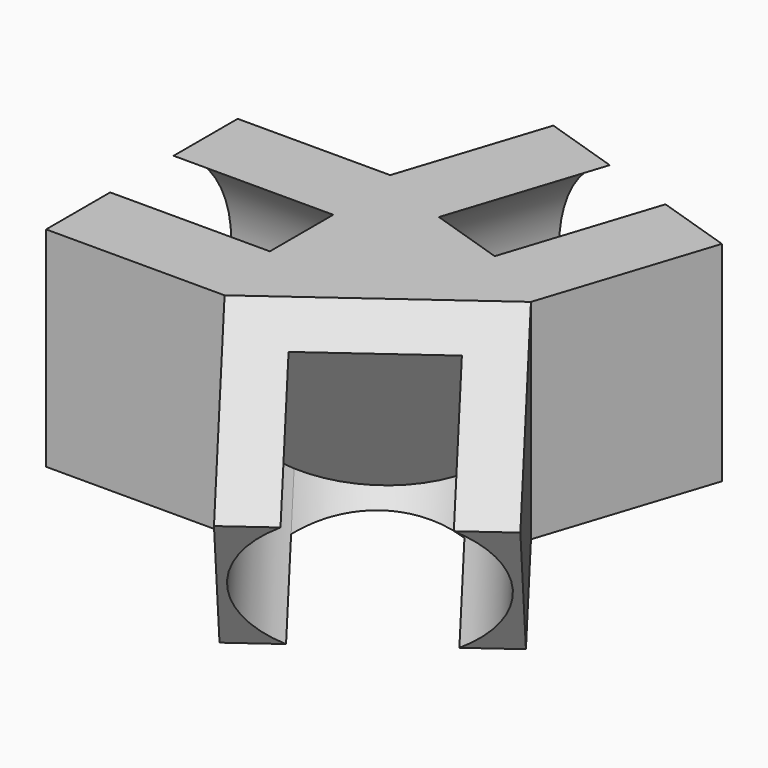
from build123d import *

# Parameters (mm, degrees)
F1_DEPTH  = 40
F3_DEPTH  = 30
F4_DEPTH  = 13.8188209357
F6_DEPTH  = 20
F7_R      = 14
F8_DEPTH  = 20
F9_R      = 14
F10_DEPTH = 20


with BuildPart() as f1:
    # F0 (on Top) → F1 (new body)
    with BuildSketch(Plane.XY):
        Polygon((17.6335575688, -24.2705098312), (0, 0), (-30, 0), (-30, -15), (-7.6428817424, -15), (5.4983026531, -33.0872886156), align=None)
        Polygon((9.2705098312, 28.5316954889), (0, 0), (17.6335575688, -24.2705098312), (29.7688124844, -15.4537310469), (16.6276280888, 2.6335575688), (23.5363575757, 23.8964405732), align=None)
        Polygon((-30, 0), (0, 0), (9.2705098312, 28.5316954889), (-4.9953379132, 33.1669504045), (-10.8981379201, 15), (-30, 15), align=None)
    extrude(amount=F1_DEPTH)

    # F2 (on face) → F3 (cut, through all)
    with BuildSketch(Plane(origin=(12.1352549156, 8.8167787844, 0), x_dir=(-0.5877852523, 0.8090169944, 0), z_dir=(0.8090169944, 0.5877852523, 0))):
        Polygon((-30, 26.1811790643), (-7.6428817424, 40), (-30, 40), align=None)
        Polygon((-18.2909047095, 7.2373321675), (-30, 26.1811790643), (-30, 0), (-7.6428817424, 0), (-7.6428817424, 13.8188209357), align=None)
    extrude(amount=-F3_DEPTH, mode=Mode.SUBTRACT)

    # F4 (cut, through all): a face of the model
    f4_faces = [f1.faces().sort_by_distance(p)[0] for p in [
        (-5.1613250879, 7.1039545366, 0),
    ]]
    extrude(f4_faces, amount=-F4_DEPTH, mode=Mode.SUBTRACT)

    # F5 (on face) → F6 (cut)
    with BuildSketch(Plane(origin=(5.8766333563, -8.0884919048, -6.1796670384), x_dir=(0.8660332683, 0.3973019791, 0.303541621), z_dir=(0.4999863781, -0.6881722113, -0.5257686082))):
        with BuildLine():
            ThreePointArc((13.555551142, 11.7065510585), (20.8125243081, 16.7507031763), (23.6020646696, 25.1367388722))
            ThreePointArc((23.6020646696, 25.1367388722), (23.0669801184, 28.9702818755), (21.5026286756, 32.5107863592))
            Line((21.5026286756, 32.5107863592), (5.6485781973, 38.566926686))
            ThreePointArc((5.6485781973, 38.566926686), (-3.4762295905, 30.1325590497), (-2.2984993363, 17.7626913852))
            Line((-2.2984993363, 17.7626913852), (13.555551142, 11.7065510585))
        make_face()
        with BuildLine():
            ThreePointArc((-2.2984993363, 17.7626913852), (4.6062444921, 12.0584446121), (13.555551142, 11.7065510585))
            Line((13.555551142, 11.7065510585), (-2.2984993363, 17.7626913852))
        make_face()
    extrude(amount=-F6_DEPTH, mode=Mode.SUBTRACT)

    # F7 (on face) → F8 (cut)
    with BuildSketch(Plane(origin=(9.2705098312, 28.5316954889, 0), x_dir=(-0.9510565163, 0.3090169944, 0), z_dir=(0.3090169944, 0.9510565163, 0))):
        with Locations((0, 26.9094104679)):
            Circle(F7_R)
    extrude(amount=-F8_DEPTH, mode=Mode.SUBTRACT)

    # F9 (on face) → F10 (cut)
    with BuildSketch(Plane(origin=(-30, 0, 0), x_dir=(0, -1, 0), z_dir=(-1, 0, 0))):
        with Locations((0, 26.9094104679)):
            Circle(F9_R)
    extrude(amount=-F10_DEPTH, mode=Mode.SUBTRACT)


solid = f1.part
